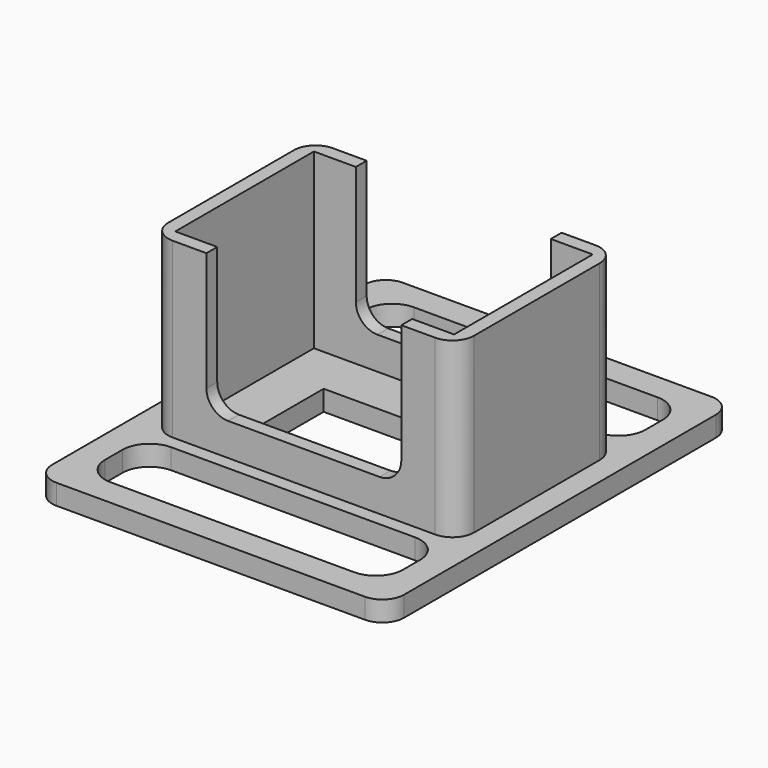
from build123d import *

# Parameters (mm, degrees)
F0_W      = 82.55
F0_H      = 101.6
F1_DEPTH  = 4.7625
F2_W      = 71.755
F2_H      = 46.99
F2_W_2    = 65.405
F2_H_2    = 40.64
F3_DEPTH  = 40.64
F4_W      = 45.72
F4_H      = 32.9846274108
F5_DEPTH  = 40.132
F6_R      = 5.08
F7_R      = 5.08
F9_DEPTH  = 25.4
F10_W     = 42.545
F10_H     = 17.78
F11_DEPTH = 25.4


with BuildPart() as f1:
    # F0 (on Top) → F1 (new body)
    with BuildSketch(Plane.XY):
        Rectangle(F0_W, F0_H)
    extrude(amount=F1_DEPTH)

    # F2 (on face) → F3 (join)
    with BuildSketch(Plane.XY.offset(4.7625)):
        Rectangle(F2_W, F2_H)
        Rectangle(F2_W_2, F2_H_2, mode=Mode.SUBTRACT)
    extrude(amount=F3_DEPTH)

    # F4 (on Front) → F5 (cut, symmetric)
    with BuildSketch(Plane.XZ):
        with Locations((0, 28.9101862946)):
            Rectangle(F4_W, F4_H)
    extrude(amount=F5_DEPTH, both=True, mode=Mode.SUBTRACT)

    # F6
    f6_edges = [f1.edges().sort_by_distance(p)[0] for p in [
        (-22.86, 21.9075, 12.417873),
        (-22.86, -21.9075, 12.417873),
        (22.86, 21.9075, 12.417873),
        (22.86, -21.9075, 12.417873),
    ]]
    fillet(f6_edges, radius=F6_R)

    # F7
    f7_edges = [f1.edges().sort_by_distance(p)[0] for p in [
        (-35.8775, -23.495, 25.0825),
        (-35.8775, 23.495, 25.0825),
        (35.8775, -23.495, 25.0825),
        (35.8775, 23.495, 25.0825),
        (-41.275, -50.8, 2.38125),
        (41.275, -50.8, 2.38125),
        (41.275, 50.8, 2.38125),
        (-41.275, 50.8, 2.38125),
    ]]
    fillet(f7_edges, radius=F7_R)

    # F8 (on face) → F9 (cut)
    with BuildSketch(Plane.XY.offset(4.7625)):
        with BuildLine():
            Line((28.575, 44.45), (-28.575, 44.45))
            ThreePointArc((-28.575, 44.45), (-33.0651280605, 42.5901280605), (-34.925, 38.1))
            Line((-34.925, 38.1), (-34.925, 33.02))
            ThreePointArc((-34.925, 33.02), (-33.0651280605, 28.5298719395), (-28.575, 26.67))
            Line((-28.575, 26.67), (28.575, 26.67))
            ThreePointArc((28.575, 26.67), (33.0651280605, 28.5298719395), (34.925, 33.02))
            Line((34.925, 33.02), (34.925, 38.1))
            ThreePointArc((34.925, 38.1), (33.0651280605, 42.5901280605), (28.575, 44.45))
        make_face()
        with BuildLine():
            Line((28.575, -26.67), (-28.575, -26.67))
            ThreePointArc((-28.575, -26.67), (-33.0651280605, -28.5298719395), (-34.925, -33.02))
            Line((-34.925, -33.02), (-34.925, -38.1))
            ThreePointArc((-34.925, -38.1), (-33.0651280605, -42.5901280605), (-28.575, -44.45))
            Line((-28.575, -44.45), (28.575, -44.45))
            ThreePointArc((28.575, -44.45), (33.0651280605, -42.5901280605), (34.925, -38.1))
            Line((34.925, -38.1), (34.925, -33.02))
            ThreePointArc((34.925, -33.02), (33.0651280605, -28.5298719395), (28.575, -26.67))
        make_face()
    extrude(amount=-F9_DEPTH, mode=Mode.SUBTRACT)

    # F10 (on face) → F11 (cut)
    with BuildSketch(Plane.XY.offset(4.7625)):
        Rectangle(F10_W, F10_H)
    extrude(amount=-F11_DEPTH, mode=Mode.SUBTRACT)


solid = f1.part
